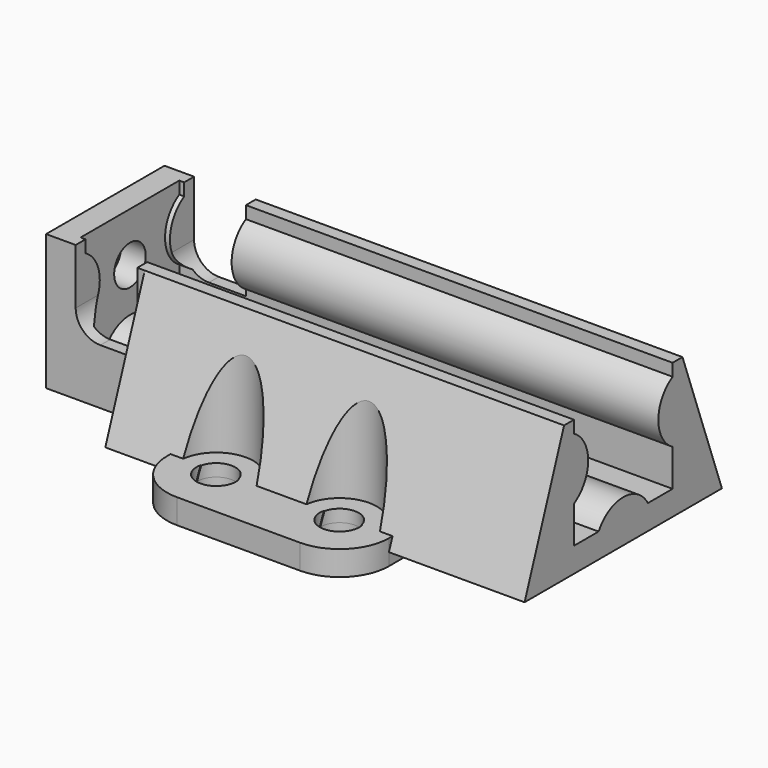
from build123d import *

# Parameters (mm, degrees)
PAD_DEPTH       = 40
SKETCH001_W     = 12
SKETCH001_H     = 11
SKETCH001_R     = 1.6
PAD001_DEPTH    = 2
SKETCH002_R     = 1.6
PAD002_DEPTH    = 1
POCKET_DEPTH    = 20.001
PAD003_DEPTH    = 34
SKETCH005_R     = 3
POCKET001_DEPTH = 11
SKETCH006_R     = 1.55
POCKET002_DEPTH = 5


with BuildPart() as part:
    # Sketch → Pad (new body)
    with BuildSketch(Plane.YZ):
        with BuildLine():
            Line((-5, 8), (-5, 9))
            Line((-5, 9), (-6, 9))
            Line((-6, 9), (-6, -2))
            Line((-6, -2), (6, -2))
            Line((6, -2), (6, 9))
            Line((6, 9), (5, 9))
            Line((5, 9), (5, 8))
            ThreePointArc((5, 8), (3.556624, 5.5), (5, 3))
            Line((5, 3), (5, 0))
            Line((5, 0), (2.5, 0))
            ThreePointArc((2.5, 0), (0, 1.443376), (-2.5, 0))
            Line((-2.5, 0), (-5, 0))
            Line((-5, 0), (-5, 3))
            ThreePointArc((-5, 3), (-3.556624, 5.5), (-5, 8))
        make_face()
    extrude(amount=PAD_DEPTH)

    # Sketch001 (on Face15 of Pad) → Pad001 (join)
    with BuildSketch(Plane(origin=(0, 0, 0), x_dir=(0, 1, 0), z_dir=(-1, 0, 0))):
        with Locations((0, -3.5)):
            Rectangle(SKETCH001_W, SKETCH001_H)
        with Locations((0, -5)):
            Circle(SKETCH001_R, mode=Mode.SUBTRACT)
    extrude(amount=PAD001_DEPTH)

    # Sketch002 (on Face16 of Pad001) → Pad002 (join, symmetric)
    with BuildSketch(Plane.YX.offset(2)):
        with BuildLine():
            Line((-10, 29), (10, 29))
            ThreePointArc((14, 25), (12.828427, 27.828427), (10, 29))
            Line((14, 25), (14, 15))
            ThreePointArc((10, 11), (12.828427, 12.171573), (14, 15))
            Line((10, 11), (-10, 11))
            ThreePointArc((-14, 15), (-12.828427, 12.171573), (-10, 11))
            Line((-14, 15), (-14, 25))
            ThreePointArc((-10, 29), (-12.828427, 27.828427), (-14, 25))
        make_face()
        with Locations((-10, 25)):
            Circle(SKETCH002_R, mode=Mode.SUBTRACT)
        with Locations((-10, 15)):
            Circle(SKETCH002_R, mode=Mode.SUBTRACT)
        with Locations((10, 15)):
            Circle(SKETCH002_R, mode=Mode.SUBTRACT)
        with Locations((10, 25)):
            Circle(SKETCH002_R, mode=Mode.SUBTRACT)
    extrude(amount=PAD002_DEPTH, both=True)

    # Sketch003 (on Face7 of Pad002) → Pocket (cut, through all)
    with BuildSketch(Plane(origin=(0, -6, 0), x_dir=(0, 0, -1), z_dir=(0, -1, 0))):
        with BuildLine():
            Line((-9, 0.4), (-4.5, 0.4))
            ThreePointArc((-4.5, 0.4), (-3.085786, 0.985786), (-2.5, 2.4))
            Line((-2.5, 2.4), (-2.5, 5.4))
            Line((-2.5, 5.4), (-9, 5.4))
            Line((-9, 5.4), (-9, 0.4))
        make_face()
    extrude(amount=-POCKET_DEPTH, mode=Mode.SUBTRACT)

    # Sketch004 (on Face23 of Pocket) → Pad003 (join)
    with BuildSketch(Plane.YZ.offset(40)):
        Polygon((-6, 9), (-10, -2), (10, -2), (6, 9), (6, -1), (-6, -1), align=None)
    extrude(amount=-PAD003_DEPTH)

    # Sketch005 (on Face52 of Pad003) → Pocket001 (cut)
    with BuildSketch(Plane(origin=(0, 0, -1), x_dir=(0, -1, 0), z_dir=(0, 0, 1))):
        with Locations((-10, 25)):
            Circle(SKETCH005_R)
        with Locations((10, 25)):
            Circle(SKETCH005_R)
        with Locations((10, 15)):
            Circle(SKETCH005_R)
        with Locations((-10, 15)):
            Circle(SKETCH005_R)
    extrude(amount=POCKET001_DEPTH, mode=Mode.SUBTRACT)

    # Sketch006 (on Face52 of Pocket001) → Pocket002 (cut)
    with BuildSketch(Plane(origin=(0, 0, -1), x_dir=(0, -1, 0), z_dir=(0, 0, 1))):
        with Locations((-10, 25)):
            Circle(SKETCH006_R)
        with Locations((-10, 15)):
            Circle(SKETCH006_R)
        with Locations((10, 25)):
            Circle(SKETCH006_R)
        with Locations((10, 15)):
            Circle(SKETCH006_R)
    extrude(amount=-POCKET002_DEPTH, mode=Mode.SUBTRACT)


solid = part.part
